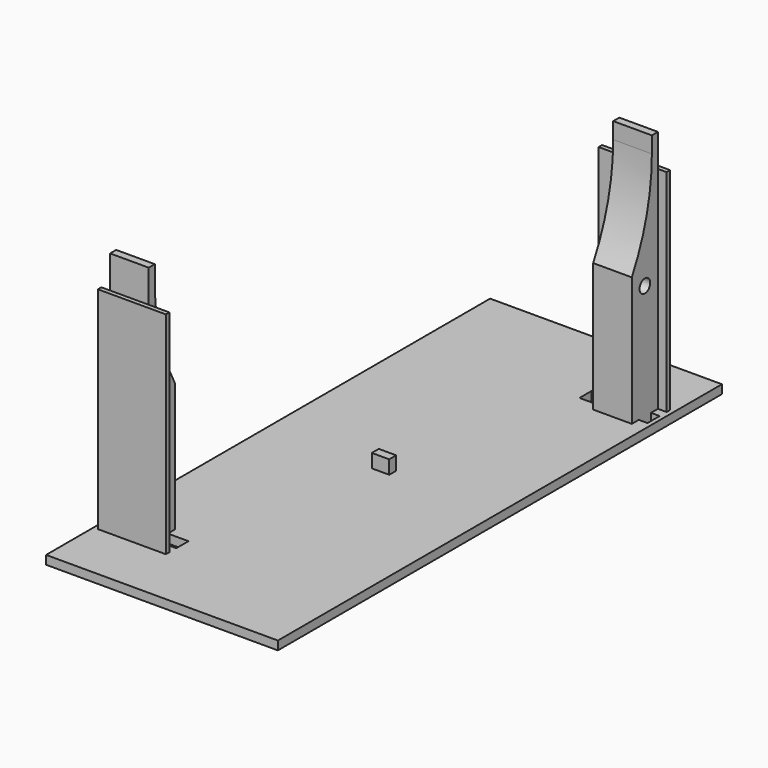
from build123d import *

# Parameters (mm, degrees)
SKETCH083_W           = 85.2
SKETCH083_H           = 204
SKETCH083_W_2         = 3.2
SKETCH083_H_2         = 5.6
SKETCH083_W_3         = 7.6
PAD041_DEPTH          = 3.2
SKETCH084_R           = 2.45
PAD042_DEPTH          = 7.1
SKETCH085_W           = 1.6
SKETCH085_H           = 77.6064407756
PAD043_DEPTH          = 10.3
PAD043_DEPTH_BACK     = 14.7
POLARPATTERN003_COUNT = 2
SKETCH086_W           = 6.4
SKETCH086_H           = 3.2
PAD044_DEPTH          = 5


with BuildPart() as part:
    # Sketch083 → Pad041 (new body)
    with BuildSketch(Plane.XY.offset(-86.8064407756)):
        Rectangle(SKETCH083_W, SKETCH083_H)
        with Locations((-39.4, -72.6064407756)):
            Rectangle(SKETCH083_W_2, SKETCH083_H_2, mode=Mode.SUBTRACT)
        with Locations((-19.8, -72.6064407756)):
            Rectangle(SKETCH083_W_3, SKETCH083_H_2, mode=Mode.SUBTRACT)
        with Locations((39.4, 72.6064407756)):
            Rectangle(SKETCH083_W_2, SKETCH083_H_2, mode=Mode.SUBTRACT)
        with Locations((19.8, 72.6064407756)):
            Rectangle(SKETCH083_W_3, SKETCH083_H_2, mode=Mode.SUBTRACT)
    extrude(amount=PAD041_DEPTH)

    # Sketch084 → Pad042 (join, symmetric)
    with BuildSketch(Plane.YZ.offset(-30.7)):
        with BuildLine():
            ThreePointArc((-75.8064407756, 0), (-73.4704487226, -18.6737684351), (-66.6064407756, -36.1966643528))
            Line((-66.6064407756, -83.6064407756), (-66.6064407756, -36.1966643528))
            Line((-78.6064407756, -83.6064407756), (-66.6064407756, -83.6064407756))
            Line((-78.6064407756, 6), (-78.6064407756, -83.6064407756))
            Line((-75.8064407756, 6), (-78.6064407756, 6))
            Line((-75.8064407756, 0), (-75.8064407756, 6))
        make_face()
        with Locations((-72.6064407756, -41.4032203878)):
            Circle(SKETCH084_R, mode=Mode.SUBTRACT)
    pad042 = extrude(amount=PAD042_DEPTH, both=True)

    # Sketch085 → Pad043 (join, two sides)
    with BuildSketch(Plane.YZ.offset(-30.7)) as pad043_sk:
        with Locations((-79.4064407756, -44.8032203878)):
            Rectangle(SKETCH085_W, SKETCH085_H)
    pad043 = extrude(amount=-PAD043_DEPTH) + extrude(pad043_sk.sketch, amount=PAD043_DEPTH_BACK)

    # PolarPattern003: Pad042, Pad043 ×2 about axis
    polarpattern003_axis = Axis((0, 0, 0), (0, 0, 1))
    for i in range(1, POLARPATTERN003_COUNT):
        add(pad042.rotate(polarpattern003_axis, i * 360 / POLARPATTERN003_COUNT))
        add(pad043.rotate(polarpattern003_axis, i * 360 / POLARPATTERN003_COUNT))

    # Sketch086 → Pad044 (join)
    with BuildSketch(Plane.XY.offset(-83.6064407756)):
        Rectangle(SKETCH086_W, SKETCH086_H)
    extrude(amount=PAD044_DEPTH)


solid = part.part
